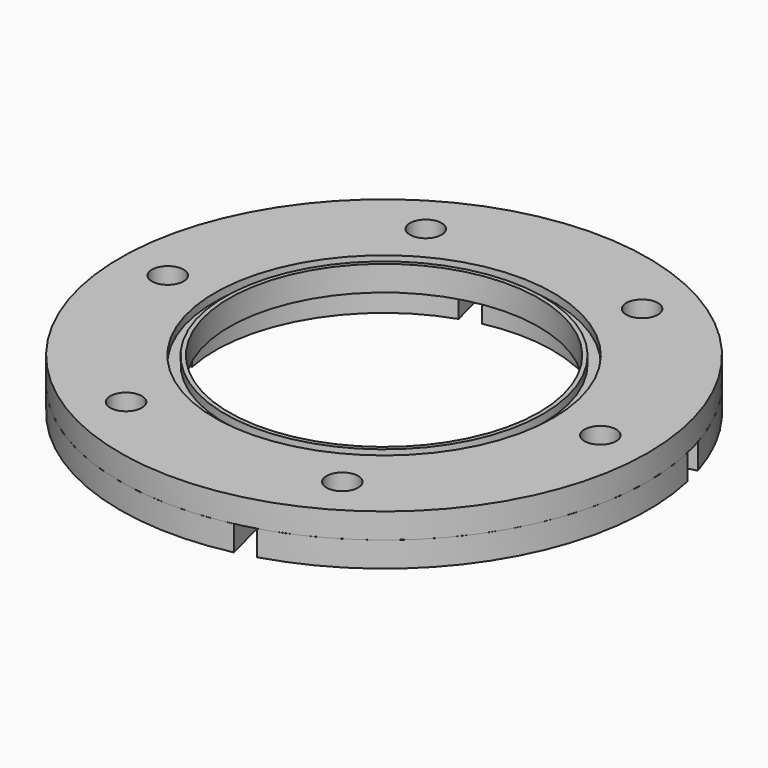
from build123d import *

# Parameters (mm, degrees)
F0_R     = 66.5
F0_R_2   = 4
F0_R_3   = 39
F1_DEPTH = 6.35
F3_W     = 2.6
F3_H     = 4
F6_R     = 66.5
F6_R_2   = 4
F6_R_3   = 42.5
F7_DEPTH = 6.35
F9_DEPTH = 6.35


with BuildPart() as f1:
    # F0 (on Top) → F1 (new body)
    with BuildSketch(Plane.XY):
        Circle(F0_R)
        with Locations((-27.25, -47.198385)):
            Circle(F0_R_2, mode=Mode.SUBTRACT)
        with Locations((27.25, -47.198385)):
            Circle(F0_R_2, mode=Mode.SUBTRACT)
        with Locations((-54.5, 0)):
            Circle(F0_R_2, mode=Mode.SUBTRACT)
        with Locations((-27.25, 47.198385)):
            Circle(F0_R_2, mode=Mode.SUBTRACT)
        Circle(F0_R_3, mode=Mode.SUBTRACT)
        with Locations((54.5, 0)):
            Circle(F0_R_2, mode=Mode.SUBTRACT)
        with Locations((27.25, 47.198385)):
            Circle(F0_R_2, mode=Mode.SUBTRACT)
    extrude(amount=F1_DEPTH)


with BuildPart() as f4:
    # F4: sweep along a path in F2
    with BuildLine(Plane.XY.offset(6.35)) as f4_path:
        CenterArc((0, 0), 41.35, 0, 360)
    # F3 (on Front) → F4 (sweep)
    with BuildSketch(Plane.XZ):
        with Locations((-41.35, 6.35)):
            Rectangle(F3_W, F3_H)
    sweep(path=f4_path.line)


with BuildPart() as f1_1:
    add(f1.part)

    # F5: cut F4
    add(f4.part, mode=Mode.SUBTRACT)


with BuildPart() as f7:
    # F6 (on face) → F7 (new body)
    with BuildSketch(Plane(origin=(0, 0, 0), x_dir=(1, 0, 0), z_dir=(0, 0, -1))):
        Circle(F6_R)
        with Locations((-27.25, -47.198385)):
            Circle(F6_R_2, mode=Mode.SUBTRACT)
        with Locations((27.25, -47.198385)):
            Circle(F6_R_2, mode=Mode.SUBTRACT)
        with Locations((-54.5, 0)):
            Circle(F6_R_2, mode=Mode.SUBTRACT)
        with Locations((-27.25, 47.198385)):
            Circle(F6_R_2, mode=Mode.SUBTRACT)
        Circle(F6_R_3, mode=Mode.SUBTRACT)
        with Locations((54.5, 0)):
            Circle(F6_R_2, mode=Mode.SUBTRACT)
        with Locations((27.25, 47.198385)):
            Circle(F6_R_2, mode=Mode.SUBTRACT)
    extrude(amount=F7_DEPTH)

    # F8 (on face) → F9 (cut, through all)
    with BuildSketch(Plane(origin=(0, 0, -6.35), x_dir=(1, 0, 0), z_dir=(0, 0, -1))):
        Polygon((66.854972, -14.915586), (64.920158, -14.409133), (41.676671, -8.324968), (39.741857, -7.818515), (38.475725, -12.65555), (40.410539, -13.162003), (63.654026, -19.246168), (65.58884, -19.752621), align=None)
        Polygon((7.653846, 40.111613), (12.490881, 38.845481), (12.997334, 40.780295), (19.081498, 64.023782), (19.587951, 65.958596), (14.750916, 67.224728), (14.244463, 65.289913), (8.160298, 42.046427), align=None)
        Polygon((-40.276282, 8.023601), (-39.01015, 12.860636), (-40.944964, 13.367089), (-64.188451, 19.451254), (-66.123265, 19.957707), (-67.389397, 15.120672), (-65.454583, 14.614219), (-42.211096, 8.530054), align=None)
        Polygon((-8.188271, -39.906526), (-13.025306, -38.640395), (-13.531759, -40.575209), (-19.615924, -63.818695), (-20.122376, -65.75351), (-15.285341, -67.019641), (-14.778888, -65.084827), (-8.694723, -41.841341), align=None)
    extrude(amount=-F9_DEPTH, mode=Mode.SUBTRACT)


solid = Compound([f1_1.part, f7.part])
